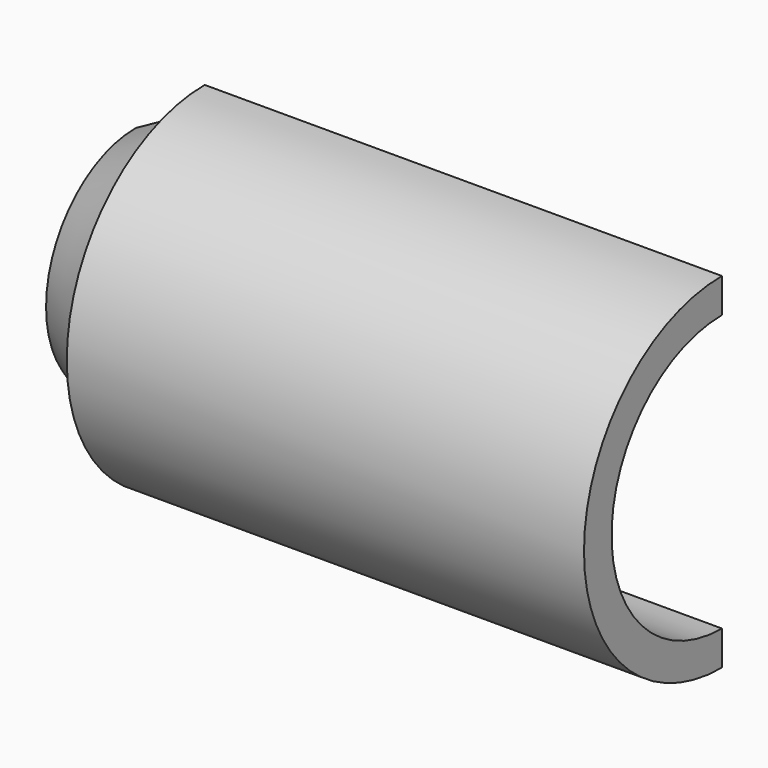
from build123d import *

# Parameters (mm, degrees)
F3_DEPTH = 25
F5_DEPTH = 1.7
F6_R     = 3
F7_DEPTH = 12.88


with BuildPart() as f1:
    # F0 (on Front) → F1 (revolve)
    with BuildSketch(Plane.XZ):
        Polygon((0, 3.25), (0, 2.85), (1, 3), (3, 3.01), (3, 4), (17, 4), (17, 5), (2, 5), (2, 4.3526792594), align=None)
    revolve(axis=Axis((8.0843353644, 0, 0), (1, 0, 0)))

    # F2 (on face) → F3 (cut)
    with BuildSketch(Plane.YZ.offset(17)):
        Polygon((0, 8.2961460575), (0, 0), (0, -8.2128858194), (10.234137997, -8.383821696), (10.234137997, 8.2961460575), align=None)
    extrude(amount=-F3_DEPTH, mode=Mode.SUBTRACT)

    # F4 (on face) → F5 (join)
    with BuildSketch(Plane(origin=(0, 0, 0), x_dir=(-1, 0, 0), z_dir=(0, 1, 0))):
        with BuildLine():
            Line((-11.0686269666, -4), (-3.1313730334, -4))
            ThreePointArc((-3.1313730334, -4), (-7.1, -2.5), (-11.0686269666, -4))
        make_face()
    extrude(amount=-F5_DEPTH)

    # F6 (on face) → F7 (cut)
    with BuildSketch(Plane.YZ.offset(17)):
        Circle(F6_R)
    extrude(amount=-F7_DEPTH, mode=Mode.SUBTRACT)


solid = f1.part
